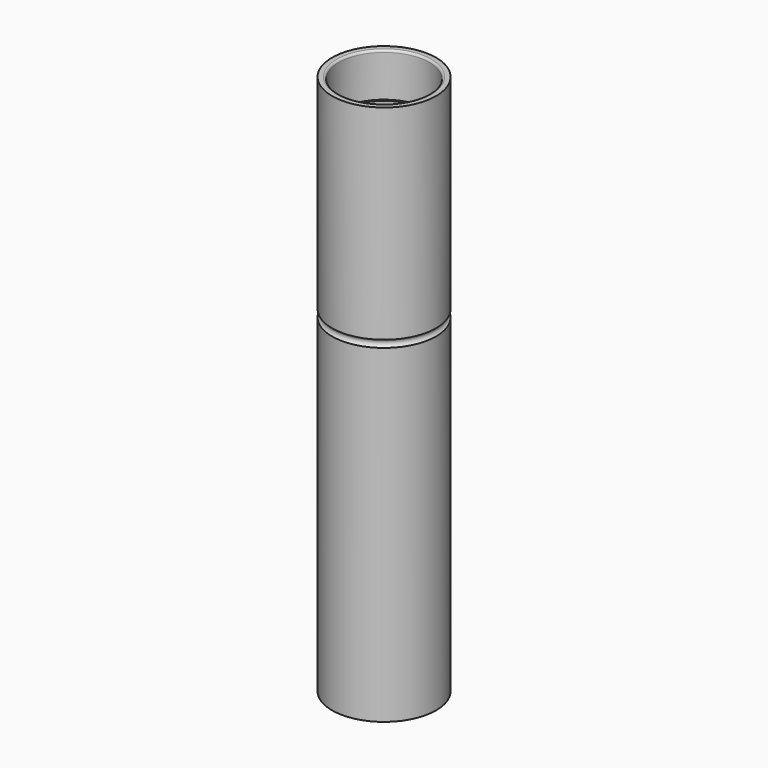
from build123d import *

# Parameters (mm, degrees)
TORUS001002001_R  = 1
CYLINDER002_R     = 10.9
CYLINDER002_DEPTH = 10.5
CYLINDER001_R     = 10.4
CYLINDER001_DEPTH = 130
CYLINDER_R        = 12.5
CYLINDER_DEPTH    = 130
FILLET_R          = 0.5


with BuildPart() as torus001002001:
    # Torus001002001 → Torus001002001 (revolve)
    with BuildSketch(Plane(origin=(0, 0, 80), x_dir=(1, 0, 0), z_dir=(0, -1, 0))):
        with Locations((13, 0)):
            Circle(TORUS001002001_R)
    revolve(axis=Axis((0, 0, 80), (0, 0, 1)))


with BuildPart() as cylinder002:
    # Cylinder002 → Cylinder002 (new body)
    with BuildSketch(Plane.XY.offset(119.5)):
        Circle(CYLINDER002_R)
    extrude(amount=CYLINDER002_DEPTH)


with BuildPart() as cylinder001:
    # Cylinder001 → Cylinder001 (new body)
    with BuildSketch(Plane.XY):
        Circle(CYLINDER001_R)
    extrude(amount=CYLINDER001_DEPTH)


with BuildPart() as fillet_body:
    # Cylinder → Cylinder (new body)
    with BuildSketch(Plane.XY):
        Circle(CYLINDER_R)
    extrude(amount=CYLINDER_DEPTH)

    # Cut: cut Cylinder001
    add(cylinder001.part, mode=Mode.SUBTRACT)

    # Cut001: cut Cylinder002
    add(cylinder002.part, mode=Mode.SUBTRACT)

    # Cut002: cut Torus001002001
    add(torus001002001.part, mode=Mode.SUBTRACT)

    # Fillet
    fillet_edges = [fillet_body.edges().sort_by_distance(p)[0] for p in [
        (-10.9, 0, 130),
    ]]
    fillet(fillet_edges, radius=FILLET_R)


solid = fillet_body.part
